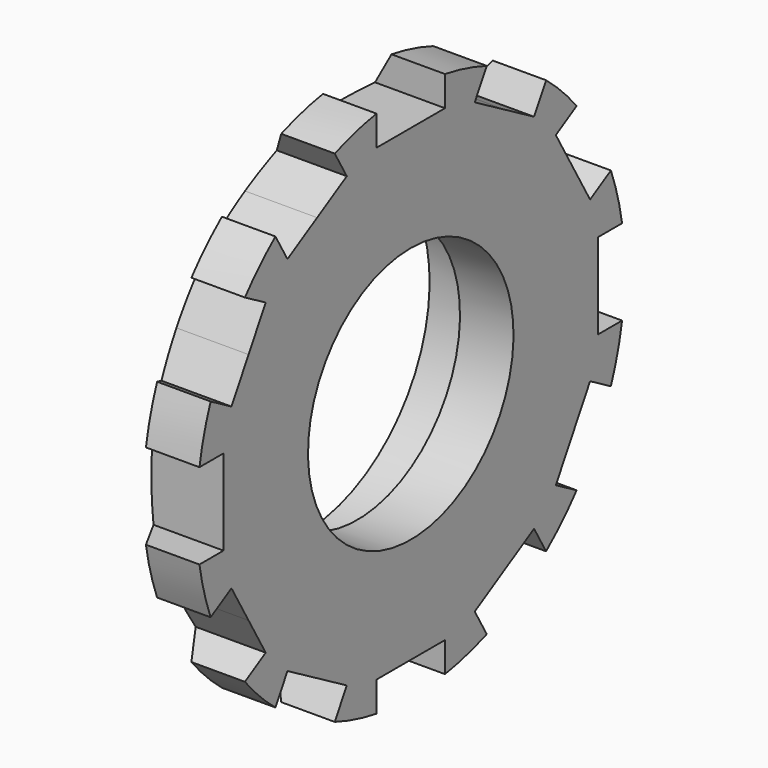
from build123d import *

# Parameters (mm, degrees)
F3_DEPTH = 25


with BuildPart() as f1:
    # F0 (on Front) → F1 (revolve)
    with BuildSketch(Plane.XZ):
        Polygon((2.5, 12.5), (0, 8), (0, 7.35), (2.5, 7.35), (2.5, 6), (5, 6), (5, 12.5), align=None)
    revolve(axis=Axis((2.5, 0, 0), (1, 0, 0)))

    # F2 (on face) → F3 (cut)
    with BuildSketch(Plane.YZ.offset(5)):
        Polygon((-2, 10.934949), (0, 10.934949), (2, 10.934949), (2, 14.15111), (-2, 14.15111), align=None)
        Polygon((-8.807606, 11.255221), (-7.199525, 8.469944), (-5.467474, 9.469944), (-3.735424, 10.469944), (-5.343504, 13.255221), align=None)
        Polygon((-13.255221, 5.343504), (-10.469944, 3.735424), (-9.469944, 5.467474), (-8.469944, 7.199525), (-11.255221, 8.807606), align=None)
        Polygon((-14.15111, -2), (-10.934949, -2), (-10.934949, 0), (-10.934949, 2), (-14.15111, 2), align=None)
        Polygon((-11.255221, -8.807606), (-8.469944, -7.199525), (-9.469944, -5.467474), (-10.469944, -3.735424), (-13.255221, -5.343504), align=None)
        Polygon((-5.343504, -13.255221), (-3.735424, -10.469944), (-5.467474, -9.469944), (-7.199525, -8.469944), (-8.807606, -11.255221), align=None)
        Polygon((2, -14.15111), (2, -10.934949), (0, -10.934949), (-2, -10.934949), (-2, -14.15111), align=None)
        Polygon((8.807606, -11.255221), (7.199525, -8.469944), (5.467474, -9.469944), (3.735424, -10.469944), (5.343504, -13.255221), align=None)
        Polygon((13.255221, -5.343504), (10.469944, -3.735424), (9.469944, -5.467474), (8.469944, -7.199525), (11.255221, -8.807606), align=None)
        Polygon((14.15111, 2), (10.934949, 2), (10.934949, 0), (10.934949, -2), (14.15111, -2), align=None)
        Polygon((11.255221, 8.807606), (8.469944, 7.199525), (9.469944, 5.467474), (10.469944, 3.735424), (13.255221, 5.343504), align=None)
        Polygon((5.343504, 13.255221), (3.735424, 10.469944), (5.467474, 9.469944), (7.199525, 8.469944), (8.807606, 11.255221), align=None)
    extrude(amount=-F3_DEPTH, mode=Mode.SUBTRACT)


solid = f1.part
